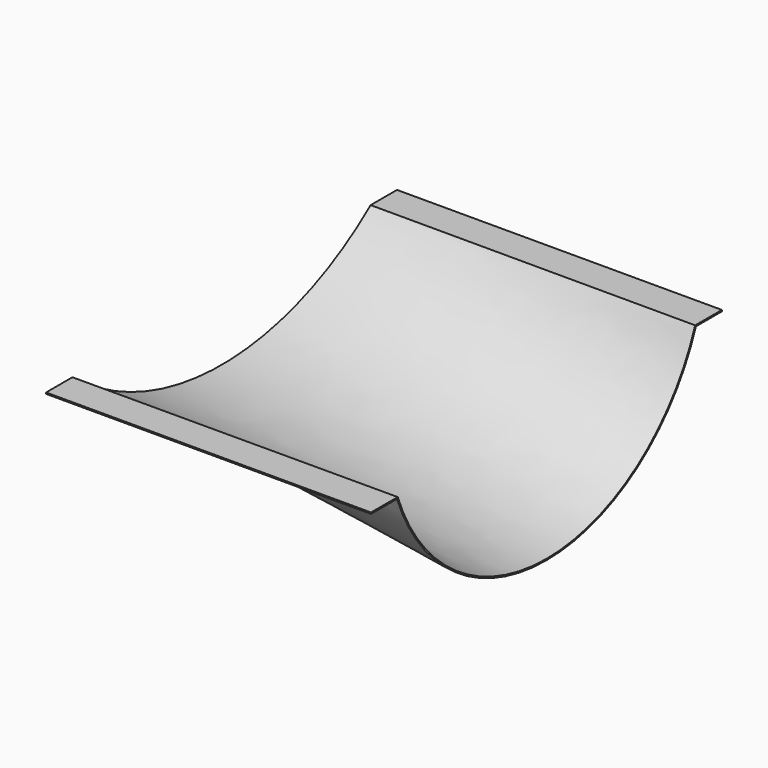
from build123d import *


with BuildPart() as f3:
    # F0 (on Right) → F3 section 0
    with BuildSketch(Plane.YZ):
        with BuildLine():
            Line((-135, 0), (-115, 0))
            ThreePointArc((-115, 0), (0, -40), (115, 0))
            Line((115, 0), (135, 0))
            Line((135, 0), (135, 0.8))
            Line((135, 0.8), (114.7214016651, 0.8))
            ThreePointArc((114.7214016651, 0.8), (0, -39.2), (-114.7214016651, 0.8))
            Line((-114.7214016651, 0.8), (-135, 0.8))
            Line((-135, 0.8), (-135, 0))
        make_face()
    # F2 (on offset) → F3 section 1
    with BuildSketch(Plane.YZ.offset(200)):
        with BuildLine():
            Line((-135, 0), (-115, 0))
            ThreePointArc((-115, 0), (0, -80), (115, 0))
            Line((115, 0), (135, 0))
            Line((135, 0), (135, 0.8))
            Line((135, 0.8), (114.4421251113, 0.8))
            ThreePointArc((114.4421251113, 0.8), (0, -79.2), (-114.4421251113, 0.8))
            Line((-114.4421251113, 0.8), (-135, 0.8))
            Line((-135, 0.8), (-135, 0))
        make_face()
    loft()


solid = f3.part
